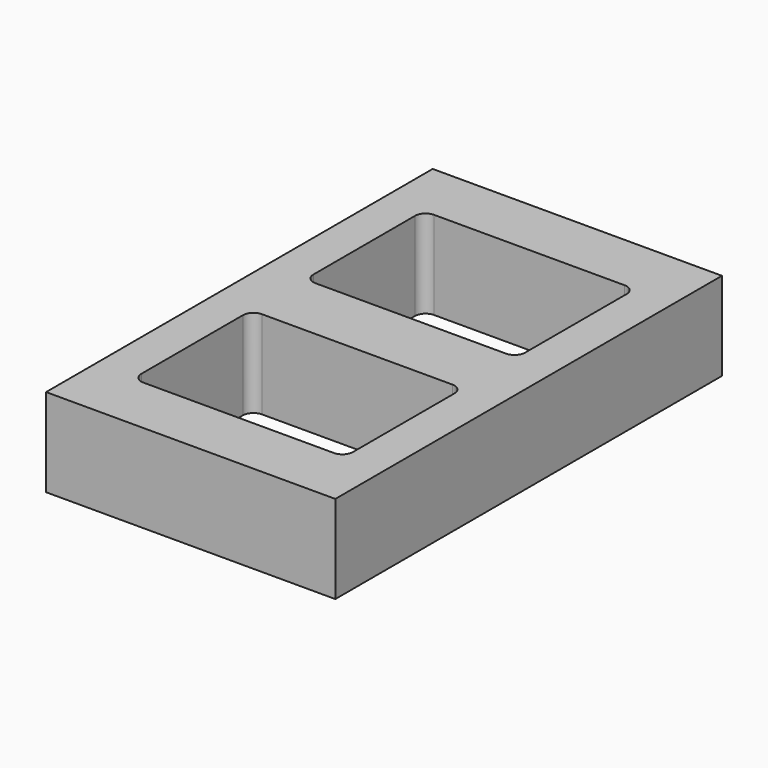
from build123d import *

# Parameters (mm, degrees)
F0_W     = 82
F0_H     = 137
F1_DEPTH = 25


with BuildPart() as f1:
    # F0 (on Top) → F1 (new body)
    with BuildSketch(Plane.XY):
        with Locations((41, 68.5)):
            Rectangle(F0_W, F0_H)
        with BuildLine():
            Line((68, 17), (14, 17))
            ThreePointArc((14, 17), (11.87868, 17.87868), (11, 20))
            Line((11, 20), (11, 56))
            ThreePointArc((11, 56), (11.87868, 58.12132), (14, 59))
            Line((14, 59), (68, 59))
            ThreePointArc((68, 59), (70.12132, 58.12132), (71, 56))
            Line((71, 56), (71, 20))
            ThreePointArc((71, 20), (70.12132, 17.87868), (68, 17))
        make_face(mode=Mode.SUBTRACT)
        with BuildLine():
            ThreePointArc((11, 117), (11.87868, 119.12132), (14, 120))
            Line((14, 120), (68, 120))
            ThreePointArc((68, 120), (70.12132, 119.12132), (71, 117))
            Line((71, 117), (71, 81))
            ThreePointArc((71, 81), (70.12132, 78.87868), (68, 78))
            Line((68, 78), (14, 78))
            ThreePointArc((14, 78), (11.87868, 78.87868), (11, 81))
            Line((11, 81), (11, 117))
        make_face(mode=Mode.SUBTRACT)
    extrude(amount=F1_DEPTH)


solid = f1.part
